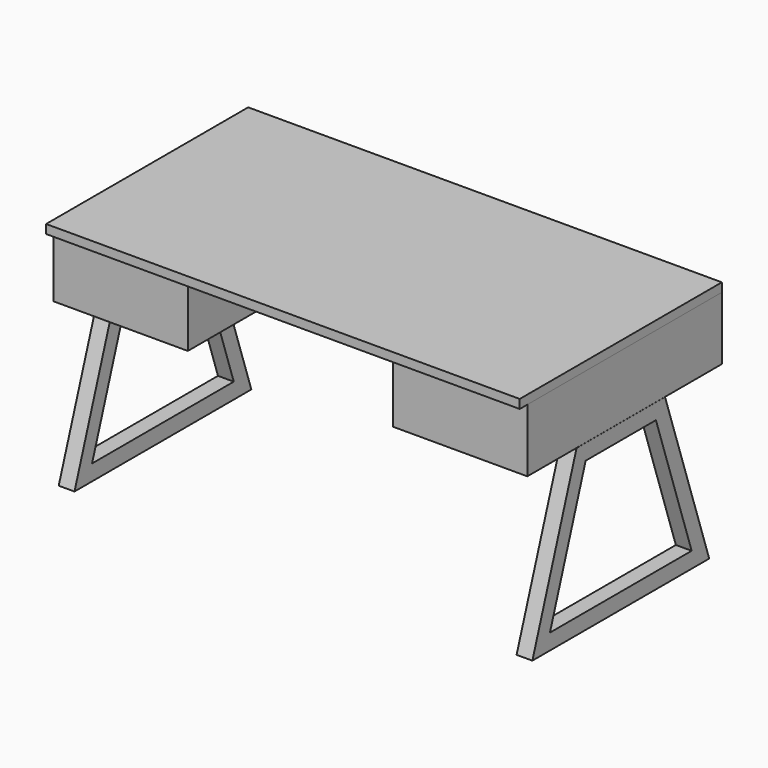
from build123d import *

# Parameters (mm, degrees)
F2_DEPTH = 750
F3_START = 700
F3_DEPTH = 50
F5_START = 325
F5_DEPTH = 425


with BuildPart() as f2:
    # F1 (on Right) → F2 (new body)
    with BuildSketch(Plane.YZ):
        Polygon((400, 750), (-400, 750), (-400, 722), (-370, 722), (400, 722), align=None)
    extrude(amount=F2_DEPTH)

    # F4: F2, F3 across plane


with BuildPart() as f3:
    # F1 (on Right) → F3 (new body)
    with BuildSketch(Plane.YZ.offset(F3_START)):
        Polygon((175, 521.7778058052), (-175, 521.7778058052), (-350, 0), (350, 0), align=None)
        Polygon((-280.4931444071, 50), (-139.0323248883, 471.7778058052), (139.0323248883, 471.7778058052), (280.4931444071, 50), align=None, mode=Mode.SUBTRACT)
    extrude(amount=F3_DEPTH)


with BuildPart() as f2_1:
    add(f2.part)
    add(f2.part.mirror(Plane.YZ))
    add(f3.part.mirror(Plane.YZ))


with BuildPart() as f5:
    # F1 (on Right) → F5 (new body)
    with BuildSketch(Plane.YZ.offset(F5_START)):
        Polygon((400.3083109856, 722), (400, 722), (-370, 722), (-370, 522), (400.3083109856, 522), align=None)
    extrude(amount=F5_DEPTH)


with BuildPart() as f6_1:
    # F6: instance of F5
    add(f5.part.mirror(Plane.YZ))


solid = Compound([f3.part, f2_1.part, f5.part, f6_1.part])
